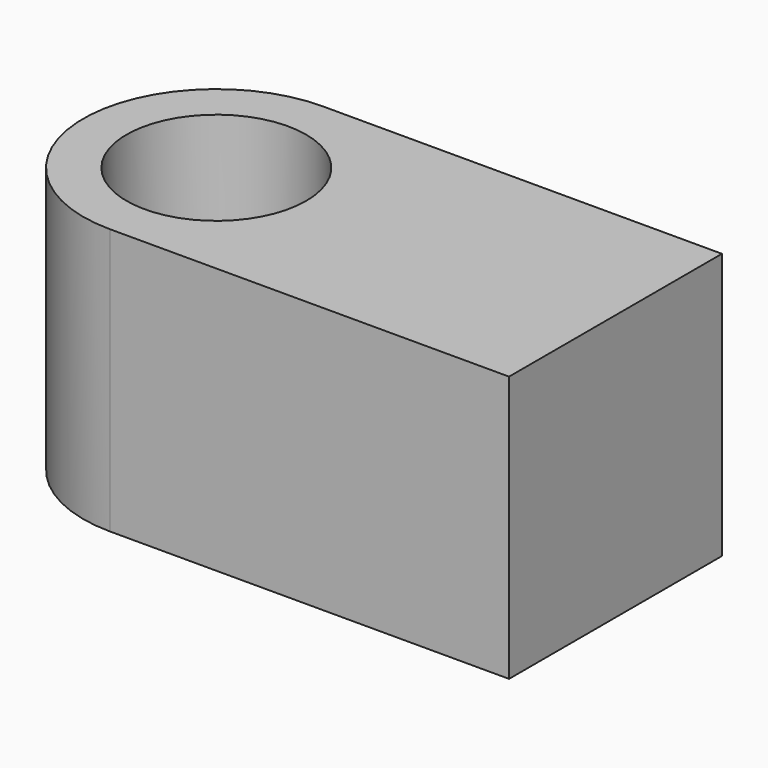
from build123d import *

# Parameters (mm, degrees)
F1_DEPTH = 4
F2_R     = 1.35
F3_DEPTH = 1.7
F4_R     = 1.15
F5_DEPTH = 4


with BuildPart() as f1:
    # F0 (on Top) → F1 (new body)
    with BuildSketch(Plane.XY):
        with BuildLine():
            ThreePointArc((0, 4), (-2, 2), (0, 0))
            Line((0, 0), (0, 4))
        make_face()
        with BuildLine():
            Line((0, 4), (0, 0))
            ThreePointArc((0, 0), (1.414214, 0.585786), (2, 2))
            ThreePointArc((2, 2), (1.414214, 3.414214), (0, 4))
        make_face()
        with BuildLine():
            ThreePointArc((2, 2), (1.414214, 0.585786), (0, 0))
            Line((0, 0), (6, 0))
            Line((6, 0), (6, 4))
            Line((6, 4), (0, 4))
            ThreePointArc((0, 4), (1.414214, 3.414214), (2, 2))
        make_face()
    extrude(amount=F1_DEPTH)

    # F2 (on face) → F3 (cut)
    with BuildSketch(Plane.XY.offset(4)):
        with Locations((0, 2)):
            Circle(F2_R)
    extrude(amount=-F3_DEPTH, mode=Mode.SUBTRACT)

    # F4 (on face) → F5 (cut)
    with BuildSketch(Plane.XY.offset(2.3)):
        with Locations((0, 2)):
            Circle(F4_R)
    extrude(amount=-F5_DEPTH, mode=Mode.SUBTRACT)


solid = f1.part
